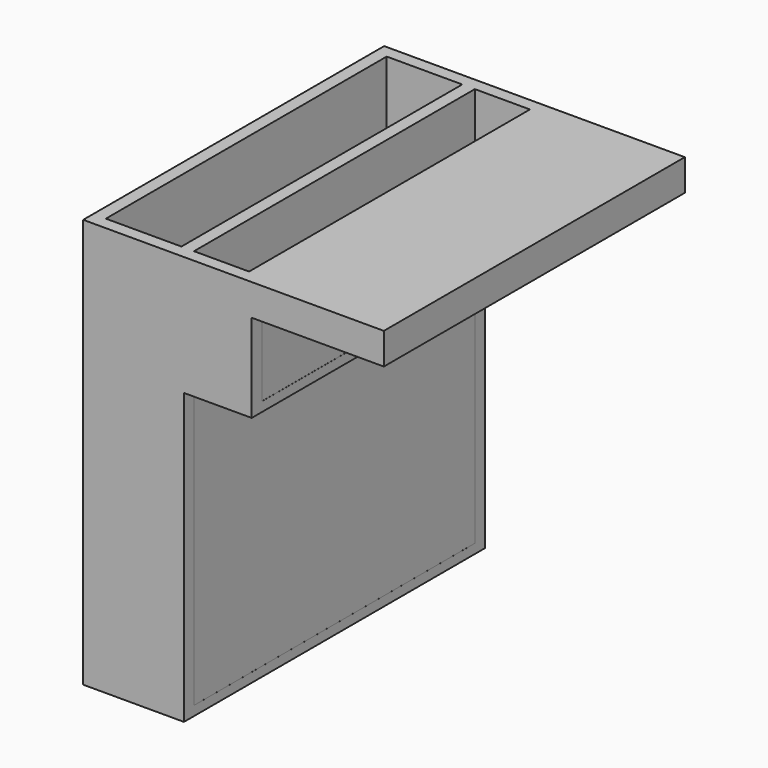
from build123d import *

# Parameters (mm, degrees)
F0_W      = 4445
F0_H      = 5664.2
F1_DEPTH  = 508
F2_W      = 1219.2
F2_H      = 5664.2
F2_W_2    = 889
F3_DEPTH  = 609.6
F4_W      = 4851.4
F4_H      = 6070.6
F4_W_2    = 4445
F4_H_2    = 5664.2
F5_DEPTH  = 6096
F6_DEPTH  = 508
F8_DEPTH  = 6096
F9_W      = 203.2
F9_H      = 5664.2
F10_DEPTH = 6096
F11_R     = 304.8
F12_DEPTH = 203.2
F13_W     = 3225.4287511826
F13_H     = 4673.6
F14_DEPTH = 6070.601
F15_W     = 2132.3983282566
F15_H     = 1423.2287267685
F16_DEPTH = 6070.601
F18_W     = 1625.9712488174
F18_H     = 6070.6
F19_DEPTH = 152.4
F17_W     = 1093.0304229259
F17_H     = 6070.6
F20_DEPTH = 152.4


with BuildPart() as f1:
    # F0 (on Top) → F1 (new body)
    with BuildSketch(Plane.XY):
        Rectangle(F0_W, F0_H)
    extrude(amount=-F1_DEPTH)

    # F2 (on face) → F3 (cut)
    with BuildSketch(Plane.XY):
        with Locations((-1612.9, 0)):
            Rectangle(F2_W, F2_H)
        with Locations((-355.6, 0)):
            Rectangle(F2_W_2, F2_H)
    extrude(amount=-F3_DEPTH, mode=Mode.SUBTRACT)


with BuildPart() as f5:
    # F4 (on face) → F5 (new body)
    with BuildSketch(Plane(origin=(0, 0, -508), x_dir=(1, 0, 0), z_dir=(0, 0, -1))):
        Rectangle(F4_W, F4_H)
        Rectangle(F4_W_2, F4_H_2, mode=Mode.SUBTRACT)
    extrude(amount=F5_DEPTH)


with BuildPart() as f6:
    # F6 (new): a face of the model
    f6_faces = [f5.part.faces().sort_by_distance(p)[0] for p in [
        (0, -2957.5901123923, -508),
    ]]
    extrude(f6_faces, amount=F6_DEPTH)


with BuildPart() as f1_1:
    add(f1.part)

    # F7: union F5, F6
    add(f5.part)
    add(f6.part)

    # F8 (add): a face of the model
    f8_faces = [f1_1.faces().sort_by_distance(p)[0] for p in [
        (-901.7, 0, -508),
    ]]
    extrude(f8_faces, amount=F8_DEPTH)

    # F9 (on face) → F10 (join)
    with BuildSketch(Plane(origin=(0, 0, -508), x_dir=(1, 0, 0), z_dir=(0, 0, -1))):
        with Locations((190.5, 0)):
            Rectangle(F9_W, F9_H)
    extrude(amount=F10_DEPTH)

    # F11 (on face) → F12 (cut)
    with BuildSketch(Plane(origin=(-2425.7, 0, 0), x_dir=(0, -1, 0), z_dir=(-1, 0, 0))):
        with Locations((-1003.3, -5241.8222427368)):
            Circle(F11_R)
        with Locations((1003.3, -5241.8222427368)):
            Circle(F11_R)
    extrude(amount=-F12_DEPTH, mode=Mode.SUBTRACT)

    # F13 (on face) → F14 (cut, through all)
    with BuildSketch(Plane.XZ.offset(3035.3)):
        with Locations((812.9856244087, -4267.2)):
            Rectangle(F13_W, F13_H)
    extrude(amount=-F14_DEPTH, mode=Mode.SUBTRACT)

    # F15 (on face) → F16 (cut, through all)
    with BuildSketch(Plane.XZ.offset(3035.3)):
        with Locations((1359.5008358717, -1218.7856366158)):
            Rectangle(F15_W, F15_H)
    extrude(amount=-F16_DEPTH, mode=Mode.SUBTRACT)

    # F18 (on face) → F19 (join)
    with BuildSketch(Plane(origin=(0, 0, -6604), x_dir=(1, 0, 0), z_dir=(0, 0, -1))):
        with Locations((-1612.7143755913, 0)):
            Rectangle(F18_W, F18_H)
    extrude(amount=-F19_DEPTH)

    # F17 (on face) → F20 (join)
    with BuildSketch(Plane(origin=(0, 0, -1930.4), x_dir=(1, 0, 0), z_dir=(0, 0, -1))):
        with Locations((-253.2135397196, 0)):
            Rectangle(F17_W, F17_H)
    extrude(amount=-F20_DEPTH)


solid = f1_1.part
